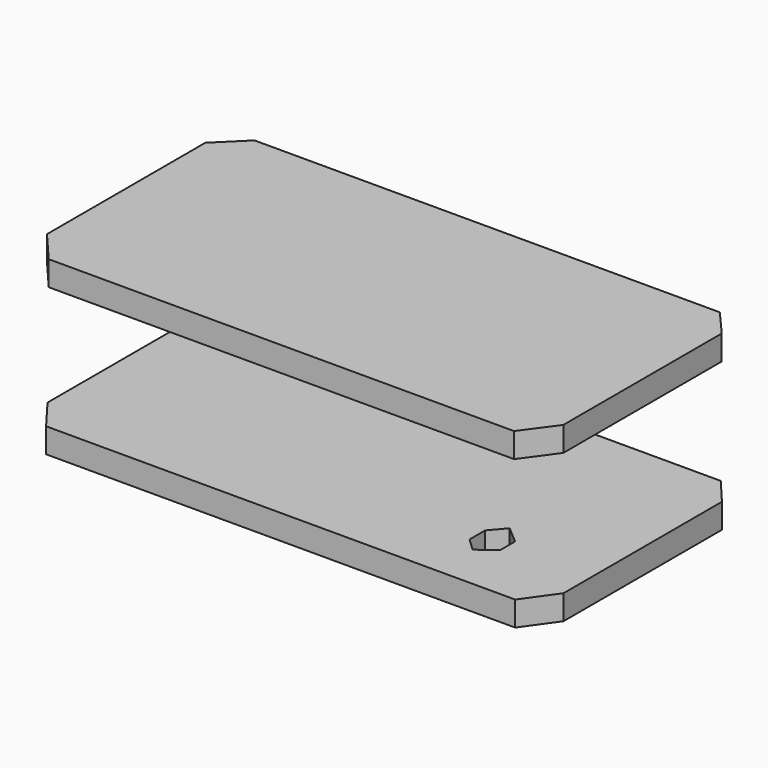
from build123d import *

# Parameters (mm, degrees)
F1_DEPTH = 5.08
F3_DEPTH = 25.4
F5_DEPTH = 5.08
F7_DEPTH = 5.08


with BuildPart() as f1:
    # F0 (on Top) → F1 (new body)
    with BuildSketch(Plane.XY):
        Polygon((47.303539, 46.30276), (-48.649952, 46.30276), (-54.208234, 40.744482), (-54.208234, 0), (-49.235035, -6.582176), (47.303539, -6.582176), (51.984198, 0), (51.984198, 40.744482), align=None)
    extrude(amount=F1_DEPTH)

    # F2 (on face) → F3 (join)
    with BuildSketch(Plane.XY.offset(5.08)):
        Polygon((-48.649952, 46.30276), (-49.959227, 44.993486), (-48.649952, 43.68421), (-47.324431, 45.00973), (-47.324431, 46.30276), align=None)
    extrude(amount=F3_DEPTH)

    # F4 (on face) → F5 (join)
    with BuildSketch(Plane.XY.offset(30.48)):
        Polygon((47.10824, 46.30276), (-48.649952, 46.30276), (-54.313436, 40.739778), (-54.313436, 0), (-48.649952, -6.634823), (47.10824, -6.634823), (51.945787, 0), (51.945787, 40.739778), align=None)
    extrude(amount=F5_DEPTH)

    # F6 (on face) → F7 (cut)
    with BuildSketch(Plane(origin=(0, 0, 0), x_dir=(1, 0, 0), z_dir=(0, 0, -1))):
        Polygon((34.669146, -9.18433), (34.669146, -5.294323), (31.111144, -2.706686), (28.497104, -5.180843), (28.497104, -9.18433), (31.111144, -12.234045), align=None)
    extrude(amount=-F7_DEPTH, mode=Mode.SUBTRACT)


solid = f1.part
